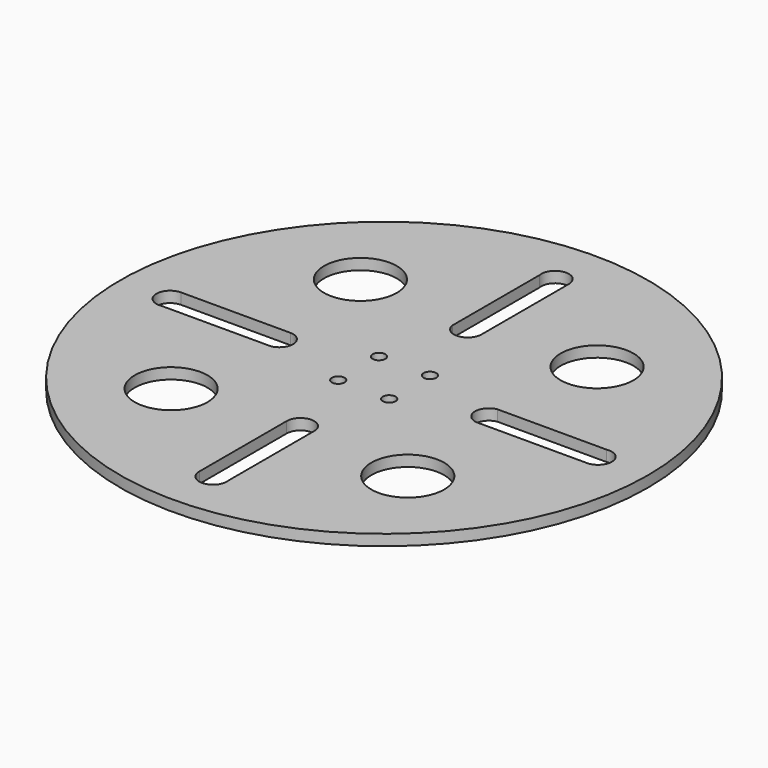
from build123d import *

# Parameters (mm, degrees)
F0_R     = 290
F0_R_2   = 40
F0_R_3   = 4.5
F1_DEPTH = 12
F2_DEPTH = 25
F3_R     = 7
F4_DEPTH = 8


with BuildPart() as f1:
    # F0 (on Top) → F1 (new body)
    with BuildSketch(Plane.XY):
        Circle(F0_R)
        with BuildLine():
            Line((-235, 15), (-115, 15))
            ThreePointArc((-115, 15), (-99.948323, 1.146943), (-112.507639, -15))
            Line((-112.507639, -15), (-232.507639, -15))
            ThreePointArc((-232.507639, -15), (-250.051677, -1.354005), (-235, 15))
        make_face(mode=Mode.SUBTRACT)
        with Locations((-130, -130)):
            Circle(F0_R_2, mode=Mode.SUBTRACT)
        with Locations((-28, -28)):
            Circle(F0_R_3, mode=Mode.SUBTRACT)
        with BuildLine():
            Line((-15, -235), (-15, -115))
            ThreePointArc((-15, -115), (-1.146943, -99.948323), (15, -112.507639))
            Line((15, -112.507639), (15, -232.507639))
            ThreePointArc((15, -232.507639), (1.354005, -250.051677), (-15, -235))
        make_face(mode=Mode.SUBTRACT)
        with Locations((130, -130)):
            Circle(F0_R_2, mode=Mode.SUBTRACT)
        with Locations((28, -28)):
            Circle(F0_R_3, mode=Mode.SUBTRACT)
        with Locations((-28, 28)):
            Circle(F0_R_3, mode=Mode.SUBTRACT)
        with Locations((-130, 130)):
            Circle(F0_R_2, mode=Mode.SUBTRACT)
        with BuildLine():
            Line((15, 235), (15, 115))
            ThreePointArc((15, 115), (1.146943, 99.948323), (-15, 112.507639))
            Line((-15, 112.507639), (-15, 232.507639))
            ThreePointArc((-15, 232.507639), (-1.354005, 250.051677), (15, 235))
        make_face(mode=Mode.SUBTRACT)
        with Locations((28, 28)):
            Circle(F0_R_3, mode=Mode.SUBTRACT)
        with Locations((130, 130)):
            Circle(F0_R_2, mode=Mode.SUBTRACT)
        with BuildLine():
            Line((235, -15), (115, -15))
            ThreePointArc((115, -15), (99.948323, -1.146943), (112.507639, 15))
            Line((112.507639, 15), (232.507639, 15))
            ThreePointArc((232.507639, 15), (250.051677, 1.354005), (235, -15))
        make_face(mode=Mode.SUBTRACT)
    extrude(amount=F1_DEPTH)

    # F0 (on Top) → F2 (cut)
    with BuildSketch(Plane.XY):
        Circle(F0_R)
        with BuildLine():
            Line((-235, 15), (-115, 15))
            ThreePointArc((-115, 15), (-99.948323, 1.146943), (-112.507639, -15))
            Line((-112.507639, -15), (-232.507639, -15))
            ThreePointArc((-232.507639, -15), (-250.051677, -1.354005), (-235, 15))
        make_face(mode=Mode.SUBTRACT)
        with Locations((-130, -130)):
            Circle(F0_R_2, mode=Mode.SUBTRACT)
        with Locations((-28, -28)):
            Circle(F0_R_3, mode=Mode.SUBTRACT)
        with BuildLine():
            Line((-15, -235), (-15, -115))
            ThreePointArc((-15, -115), (-1.146943, -99.948323), (15, -112.507639))
            Line((15, -112.507639), (15, -232.507639))
            ThreePointArc((15, -232.507639), (1.354005, -250.051677), (-15, -235))
        make_face(mode=Mode.SUBTRACT)
        with Locations((130, -130)):
            Circle(F0_R_2, mode=Mode.SUBTRACT)
        with Locations((28, -28)):
            Circle(F0_R_3, mode=Mode.SUBTRACT)
        with Locations((-28, 28)):
            Circle(F0_R_3, mode=Mode.SUBTRACT)
        with Locations((-130, 130)):
            Circle(F0_R_2, mode=Mode.SUBTRACT)
        with BuildLine():
            Line((15, 235), (15, 115))
            ThreePointArc((15, 115), (1.146943, 99.948323), (-15, 112.507639))
            Line((-15, 112.507639), (-15, 232.507639))
            ThreePointArc((-15, 232.507639), (-1.354005, 250.051677), (15, 235))
        make_face(mode=Mode.SUBTRACT)
        with Locations((28, 28)):
            Circle(F0_R_3, mode=Mode.SUBTRACT)
        with Locations((130, 130)):
            Circle(F0_R_2, mode=Mode.SUBTRACT)
        with BuildLine():
            Line((235, -15), (115, -15))
            ThreePointArc((115, -15), (99.948323, -1.146943), (112.507639, 15))
            Line((112.507639, 15), (232.507639, 15))
            ThreePointArc((232.507639, 15), (250.051677, 1.354005), (235, -15))
        make_face(mode=Mode.SUBTRACT)
    extrude(amount=-F2_DEPTH, mode=Mode.SUBTRACT)

    # F3 (on face) → F4 (cut)
    with BuildSketch(Plane.XY.offset(12)):
        with Locations((-28, 28)):
            Circle(F3_R)
        with Locations((28, 28)):
            Circle(F3_R)
        with Locations((-28, -28)):
            Circle(F3_R)
        with Locations((28, -28)):
            Circle(F3_R)
    extrude(amount=-F4_DEPTH, mode=Mode.SUBTRACT)


solid = f1.part
